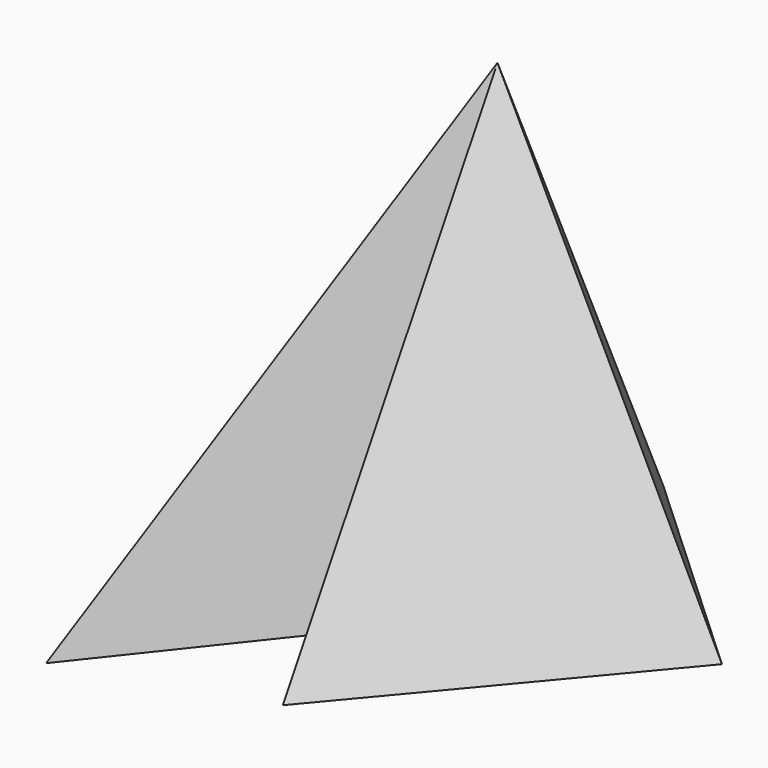
from build123d import *


with BuildPart() as f3:
    # F0 (on Top) → F3 section 0
    with BuildSketch(Plane.XY, mode=Mode.PRIVATE) as f3_s0:
        Polygon((0, 11.634152), (-42.459019, 76.454923), (-42.459019, -73.872954), (0, -20.225411), (0, -60.389347), (50.491802, 0), (0, 46.618853), align=None)
    loft([Vertex(0, 0, 102.7), f3_s0.sketch])


solid = f3.part
